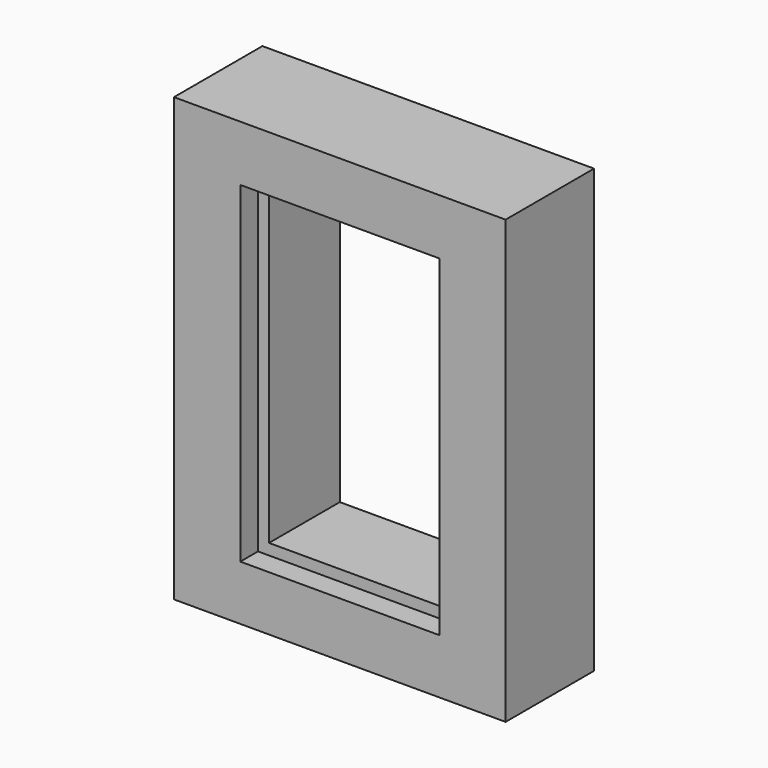
from build123d import *

# Parameters (mm, degrees)
F1_W     = 45
F1_H     = 75
F1_W_2   = 40
F1_H_2   = 70.19363
F3_DEPTH = 20
F2_W     = 75
F2_H     = 100
F2_W_2   = 45
F2_H_2   = 75
F4_DEPTH = 25


with BuildPart() as f3:
    # F1 (on face) → F3 (new body)
    with BuildSketch(Plane.XZ):
        with Locations((0, -0.096815)):
            Rectangle(F1_W, F1_H)
        Rectangle(F1_W_2, F1_H_2, mode=Mode.SUBTRACT)
    extrude(amount=F3_DEPTH)

    # F2 (on face) → F4 (join)
    with BuildSketch(Plane.XZ):
        Rectangle(F2_W, F2_H)
        with Locations((0, -0.096815)):
            Rectangle(F2_W_2, F2_H_2, mode=Mode.SUBTRACT)
    extrude(amount=F4_DEPTH)


solid = f3.part
